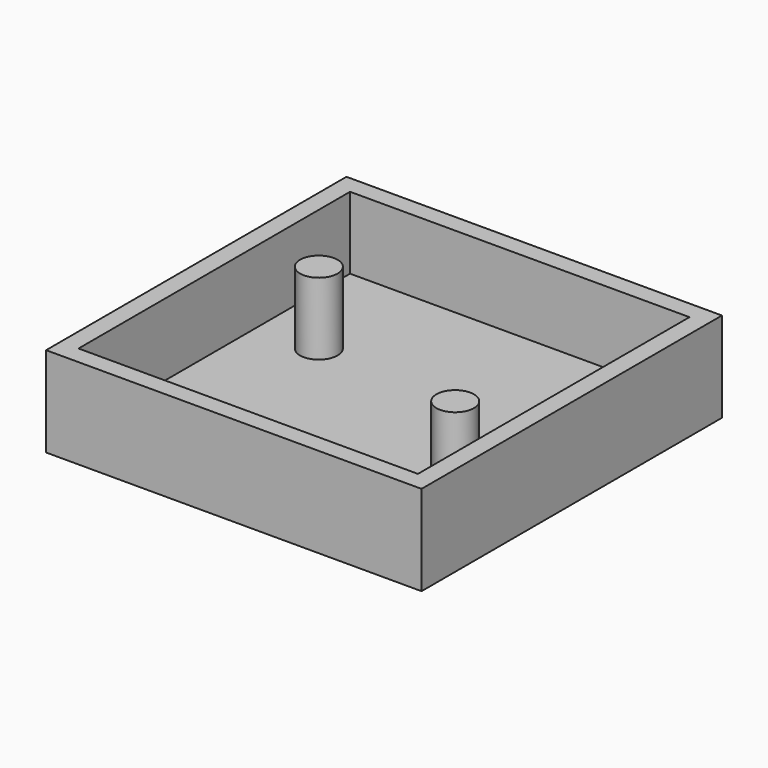
from build123d import *

# Parameters (mm, degrees)
F0_W     = 22.6
F0_H     = 22.6
F0_R     = 1.25
F1_DEPTH = 1.2
F0_W_2   = 25
F0_H_2   = 25
F2_DEPTH = 6


with BuildPart() as f1:
    # F0 (on Top) → F1 (new body)
    with BuildSketch(Plane.XY):
        with Locations((-8.805462, -6.924062)):
            Rectangle(F0_W, F0_H)
        with Locations((-1.105462, -10.624062)):
            Circle(F0_R, mode=Mode.SUBTRACT)
        with Locations((-16.105462, -3.224062)):
            Circle(F0_R, mode=Mode.SUBTRACT)
    extrude(amount=F1_DEPTH)

    # F0 (on Top) → F2 (join)
    with BuildSketch(Plane.XY):
        with Locations((-8.805462, -6.924062)):
            Rectangle(F0_W_2, F0_H_2)
        with Locations((-8.805462, -6.924062)):
            Rectangle(F0_W, F0_H, mode=Mode.SUBTRACT)
        with Locations((-16.105462, -3.224062)):
            Circle(F0_R)
        with Locations((-1.105462, -10.624062)):
            Circle(F0_R)
    extrude(amount=F2_DEPTH)


solid = f1.part
